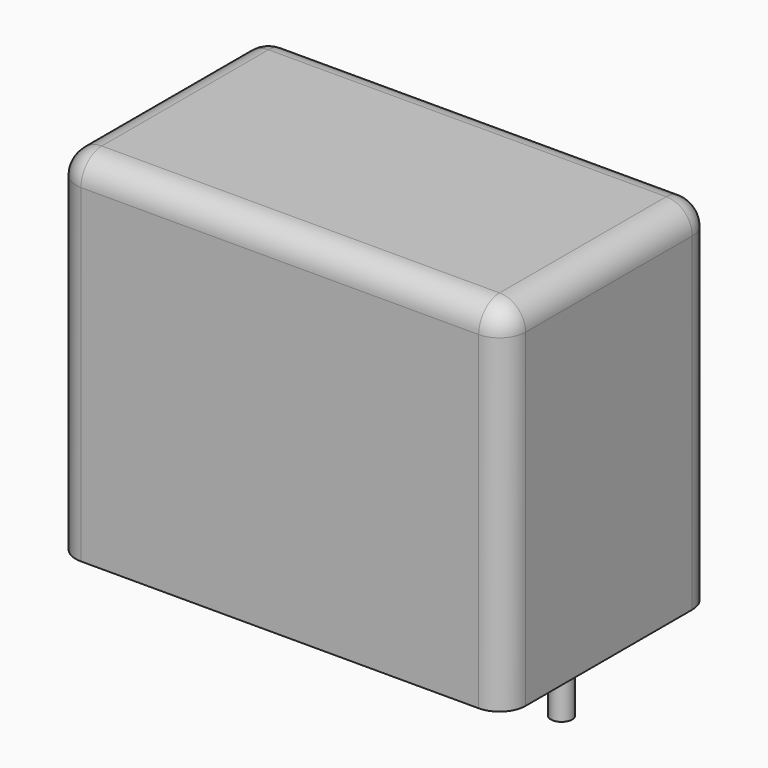
from build123d import *

# Parameters (mm, degrees)
SKETCH_W     = 19
SKETCH_H     = 11
PAD_DEPTH    = 15
FILLET_R     = 1.1
SKETCH001_R  = 0.45
PAD001_DEPTH = 3.2


with BuildPart() as fillet_body:
    # Sketch → Pad (new body)
    with BuildSketch(Plane.XY.offset(0.1)):
        with Locations((7.5, 0)):
            Rectangle(SKETCH_W, SKETCH_H)
    extrude(amount=PAD_DEPTH)

    # Fillet
    fillet_edges = [fillet_body.edges().sort_by_distance(p)[0] for p in [
        (-2, 0, 15.1),
        (-2, -5.5, 7.6),
        (7.5, -5.5, 15.1),
        (17, -5.5, 7.6),
        (17, 0, 15.1),
        (17, 5.5, 7.6),
        (7.5, 5.5, 15.1),
        (-2, 5.5, 7.6),
    ]]
    fillet(fillet_edges, radius=FILLET_R)


with BuildPart() as pad001:
    # Sketch001 → Pad001 (new body)
    with BuildSketch(Plane.XY.offset(0.5)):
        Circle(SKETCH001_R)
        with Locations((15, 0)):
            Circle(SKETCH001_R)
    extrude(amount=-PAD001_DEPTH)


solid = Compound([fillet_body.part, pad001.part])
